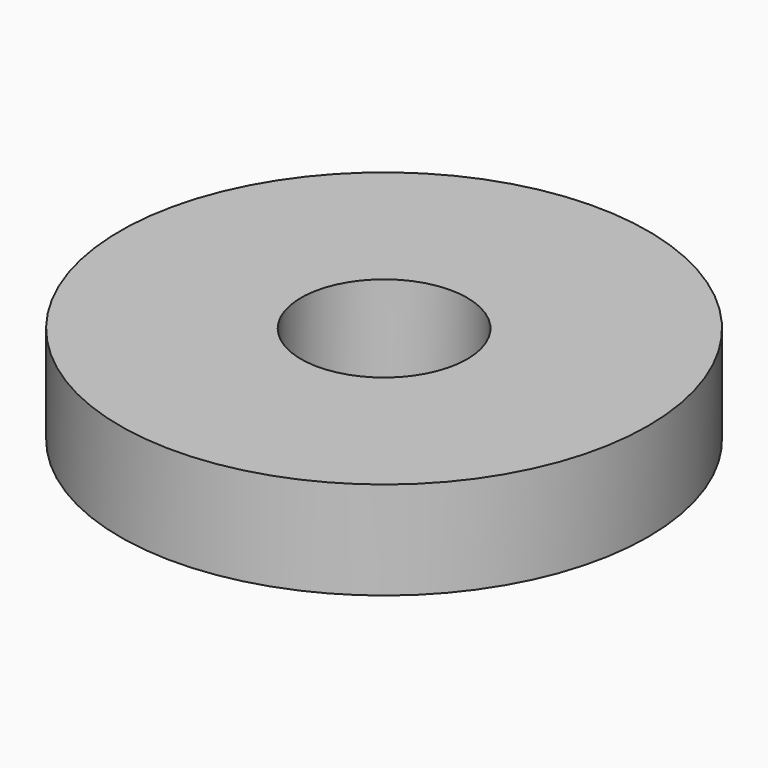
from build123d import *

# Parameters (mm, degrees)
F0_R     = 7.5
F0_R_2   = 1.7
F1_DEPTH = 2
F2_R     = 7.5
F2_R_2   = 6.5
F2_R_3   = 5.4
F3_DEPTH = 2


with BuildPart() as f1:
    # F0 (on Top) → F1 (new body)
    with BuildSketch(Plane.XY):
        Circle(F0_R)
        Circle(F0_R_2, mode=Mode.SUBTRACT)
    extrude(amount=F1_DEPTH)

    # F2 (on face) → F3 (cut, through all)
    with BuildSketch(Plane(origin=(0, 0, 0), x_dir=(1, 0, 0), z_dir=(0, 0, -1))):
        Circle(F2_R)
        Circle(F2_R_2, mode=Mode.SUBTRACT)
        Circle(F2_R_2)
        Circle(F2_R_3, mode=Mode.SUBTRACT)
    extrude(amount=-F3_DEPTH, mode=Mode.SUBTRACT)


solid = f1.part
